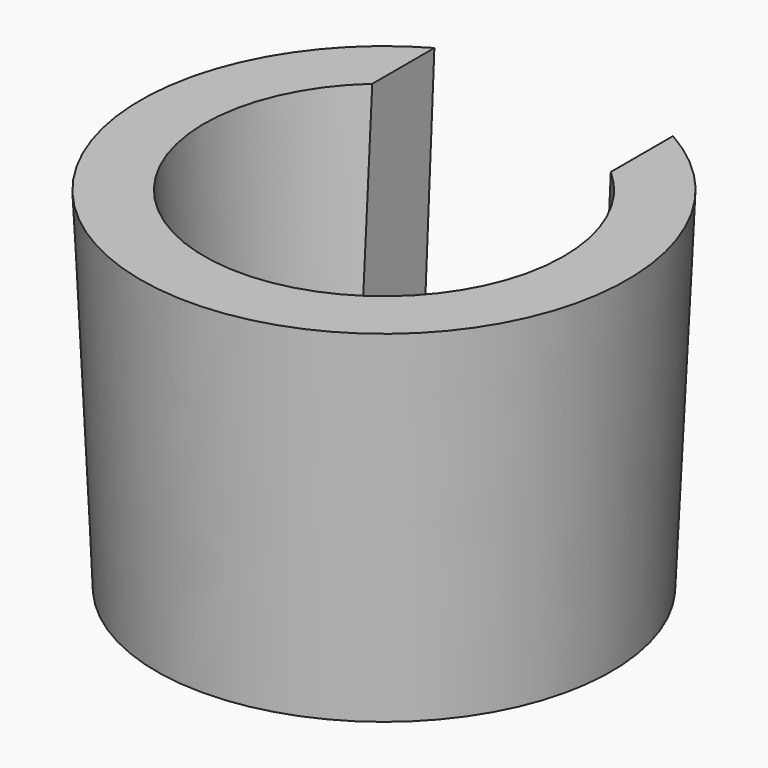
from build123d import *

# Parameters (mm, degrees)
F2_W     = 15
F2_H     = 24.842653
F3_DEPTH = 25


with BuildPart() as f1:
    # F0 (on Front) → F1 (revolve)
    with BuildSketch(Plane.XZ):
        Polygon((15.3, 22), (11.3, 22), (10.3, 0), (14.3, 0), align=None)
    revolve(axis=Axis((0, 0, 11), (0, 0, -1)))

    # F2 (on Front) → F3 (cut)
    with BuildSketch(Plane.XZ):
        with Locations((0, 12.421326)):
            Rectangle(F2_W, F2_H)
    extrude(amount=-F3_DEPTH, mode=Mode.SUBTRACT)


solid = f1.part
